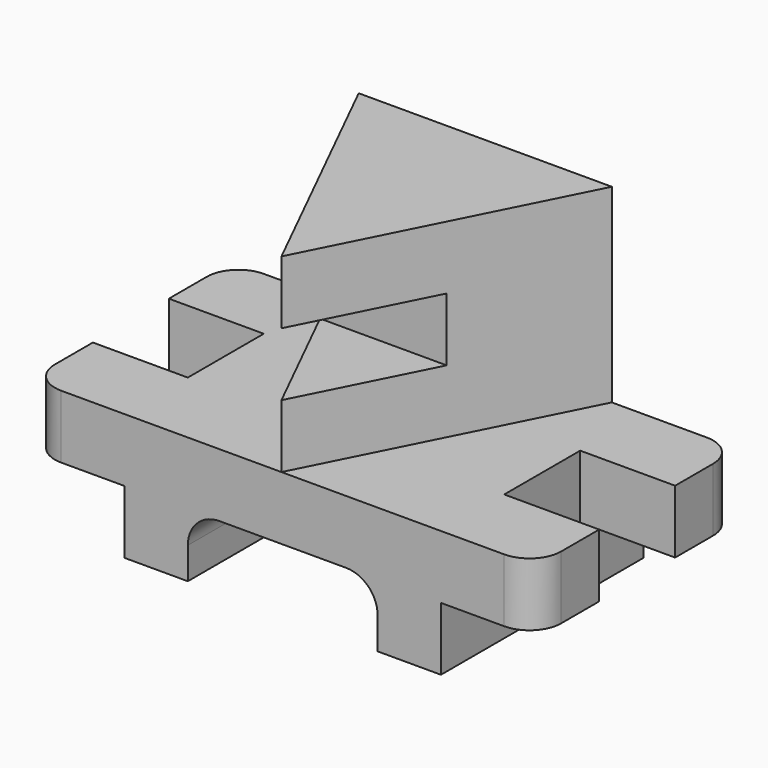
from build123d import *

# Parameters (mm, degrees)
F1_DEPTH = 50.8
F2_W     = 101.6
F2_H     = 25.4
F3_DEPTH = 50.8
F5_DEPTH = 76.2
F6_W     = 38.1
F6_H     = 38.1
F7_DEPTH = 25.4
F8_W     = 38.1
F8_H     = 38.1
F9_DEPTH = 25.4
F10_R    = 12.7
F11_R    = 12.7


with BuildPart() as f1:
    # F0 (on Front) → F1 (new body, symmetric)
    with BuildSketch(Plane.XZ):
        Polygon((-101.0792693405, 25.4), (-101.0792693405, 0), (-62.9792693405, 0), (-62.9792693405, -25.4), (-37.5792693405, -25.4), (-37.5792693405, 0), (38.6207306595, 0), (38.6207306595, -25.4), (64.0207306595, -25.4), (64.0207306595, 0), (102.1207306595, 0), (102.1207306595, 25.4), (51.3207306595, 25.4), (51.3207306595, 101.6), (-50.2792693405, 101.6), (-50.2792693405, 25.4), align=None)
    extrude(amount=F1_DEPTH, both=True)

    # F2 (on face) → F3 (cut)
    with BuildSketch(Plane.XZ.offset(50.8)):
        with Locations((0.5207306595, 63.5)):
            Rectangle(F2_W, F2_H)
    extrude(amount=-F3_DEPTH, mode=Mode.SUBTRACT)

    # F4 (on face) → F5 (cut)
    with BuildSketch(Plane.XY.offset(101.6)):
        Polygon((51.3207306595, 50.8), (0, -50.8), (51.3207306595, -50.8), align=None)
        Polygon((0, -50.8), (-50.2792693405, 50.8), (-50.2792693405, -50.8), align=None)
    extrude(amount=-F5_DEPTH, mode=Mode.SUBTRACT)

    # F6 (on face) → F7 (cut)
    with BuildSketch(Plane.XY.offset(25.4)):
        with Locations((83.0707306595, 0)):
            Rectangle(F6_W, F6_H)
    extrude(amount=-F7_DEPTH, mode=Mode.SUBTRACT)

    # F8 (on face) → F9 (cut)
    with BuildSketch(Plane.XY.offset(25.4)):
        with Locations((-82.0292693405, 0)):
            Rectangle(F8_W, F8_H)
    extrude(amount=-F9_DEPTH, mode=Mode.SUBTRACT)

    # F10
    f10_edges = [f1.edges().sort_by_distance(p)[0] for p in [
        (-37.579269, 0, 0),
        (38.620731, 0, 0),
    ]]
    fillet(f10_edges, radius=F10_R)

    # F11
    f11_edges = [f1.edges().sort_by_distance(p)[0] for p in [
        (102.120731, -50.8, 12.7),
        (102.120731, 50.8, 12.7),
        (-101.079269, -50.8, 12.7),
        (-101.079269, 50.8, 12.7),
    ]]
    fillet(f11_edges, radius=F11_R)


solid = f1.part
